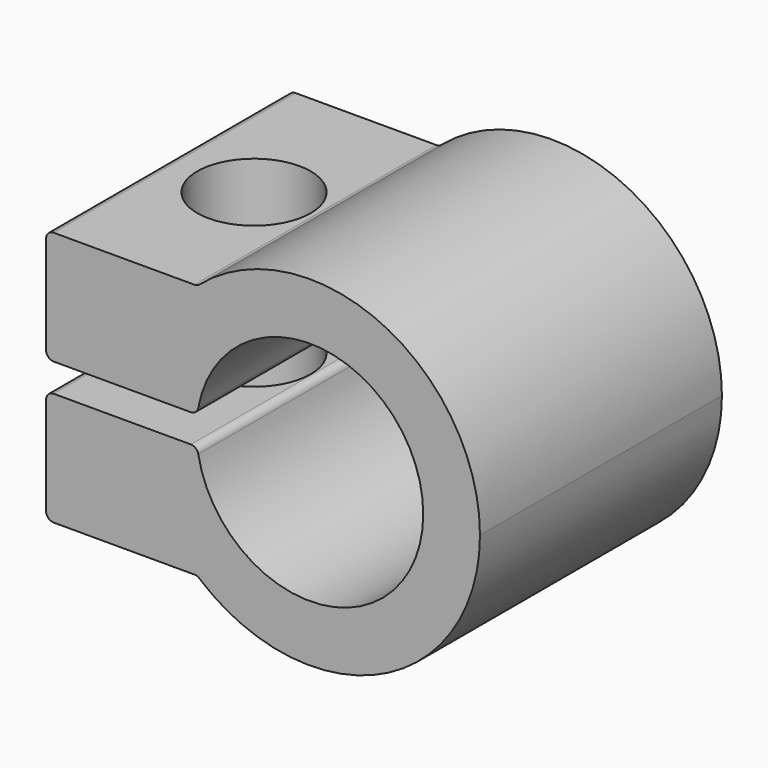
from build123d import *

# Parameters (mm, degrees)
F1_DEPTH = 40
F3_R     = 7.5
F4_DEPTH = 45


with BuildPart() as f1:
    # F0 (on Front) → F1 (new body)
    with BuildSketch(Plane.XZ):
        with BuildLine():
            Line((-34.882351, 15.875), (-34.882351, 2.875))
            ThreePointArc((-34.882351, 2.875), (-34.589458, 2.167893), (-33.882351, 1.875))
            Line((-33.882351, 1.875), (-15.73958, 1.875))
            ThreePointArc((-15.73958, 1.875), (-15.099145, 2.106987), (-14.755856, 2.695313))
            ThreePointArc((-14.755856, 2.695313), (1.353174, 14.938839), (15, 0))
            Line((15, 0), (22.5, 0))
            ThreePointArc((22.5, 0), (9.4235, 20.431536), (-14.606458, 17.114362))
            ThreePointArc((-14.606458, 17.114362), (-14.909685, 16.936747), (-15.255634, 16.875))
            Line((-15.255634, 16.875), (-33.882351, 16.875))
            ThreePointArc((-33.882351, 16.875), (-34.589458, 16.582107), (-34.882351, 15.875))
        make_face()
    extrude(amount=F1_DEPTH)

    # F2: F1 across face


with BuildPart() as f1_1:
    add(f1.part)
    add(f1.part.mirror(Plane(origin=(18.75, -20, 0), x_dir=(1, 0, 0), z_dir=(0, 0, -1))))

    # F3 (on face) → F4 (cut)
    with BuildSketch(Plane.XY.offset(16.875)):
        with Locations((-23.382351, -20)):
            Circle(F3_R)
    extrude(amount=-F4_DEPTH, mode=Mode.SUBTRACT)


solid = f1_1.part
